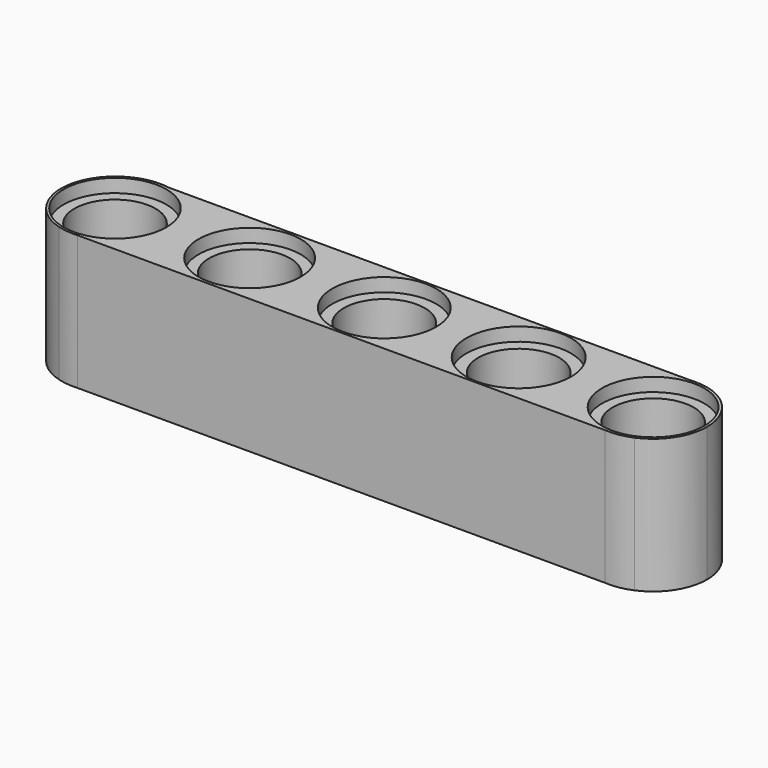
from build123d import *

# Parameters (mm, degrees)
F0_R     = 2.3919393617
F1_DEPTH = 7.9375
F2_R     = 3.0192979406
F2_R_2   = 2.3919393617
F2_R_3   = 3.0900236713
F2_R_4   = 3.0639016039
F2_R_5   = 3.0180013539
F2_R_6   = 3.0358198122
F3_DEPTH = 0.79375
F4_R     = 3.0946781872
F4_R_2   = 2.3919393617
F4_R_3   = 3.0440395285
F4_R_4   = 3.0438317033
F4_R_5   = 3.080942185
F4_R_6   = 2.996685824
F5_DEPTH = 0.79375


with BuildPart() as f1:
    # F0 (on Top) → F1 (new body)
    with BuildSketch(Plane.XY):
        with BuildLine():
            ThreePointArc((-3.1748391564, 6.3618900805), (-0.0650994939, 3.8236435926), (-1.9082323266, 0.2576882701))
            ThreePointArc((-1.9082323266, 0.2576882701), (-0.4943758214, 1.4282223533), (0.0359294434, 3.1854692293))
            ThreePointArc((0.0359294434, 3.1854692293), (-0.9065879549, 5.443714368), (-3.1748391564, 6.3618900805))
        make_face()
        with BuildLine():
            ThreePointArc((-36.5301852994, 5.9214270067), (-38.0657970886, 2.7730759979), (-35.7714141925, 0.1261863575))
            ThreePointArc((-35.7714141925, 0.1261863575), (-38.0245779178, 2.7784728257), (-36.5301852994, 5.9214270067))
        make_face()
        with BuildLine():
            ThreePointArc((-26.6891774485, 6.35), (-26.9658751282, 6.362073801), (-27.2425728079, 6.35))
            Line((-27.2425728079, 6.35), (-26.6891774485, 6.35))
        make_face()
        with BuildLine():
            Line((-19.2923728079, 6.35), (-18.7389774485, 6.35))
            ThreePointArc((-18.7389774485, 6.35), (-19.0156751282, 6.362073801), (-19.2923728079, 6.35))
        make_face()
        with BuildLine():
            Line((-11.3548728079, 6.35), (-10.8014774485, 6.35))
            ThreePointArc((-10.8014774485, 6.35), (-11.0781751282, 6.362073801), (-11.3548728079, 6.35))
        make_face()
        with BuildLine():
            Line((-34.594617784, 0), (-3.4232600592, 0))
            ThreePointArc((-3.4232600592, 0), (-2.6499734267, 0.0361112438), (-1.9082323266, 0.2576882701))
            ThreePointArc((-1.9082323266, 0.2576882701), (-6.2510268672, 2.54007891), (-3.1748391564, 6.3618900805))
            ThreePointArc((-3.1748391564, 6.3618900805), (-3.3171702803, 6.3591232625), (-3.4592356533, 6.35))
            Line((-3.4592356533, 6.35), (-10.8014774485, 6.35))
            ThreePointArc((-10.8014774485, 6.35), (-8.7361913838, 5.331611989), (-7.9015705566, 3.1854692293))
            ThreePointArc((-7.9015705566, 3.1854692293), (-13.224317888, 0.8434854848), (-11.3548728079, 6.35))
            Line((-11.3548728079, 6.35), (-18.7389774485, 6.35))
            ThreePointArc((-18.7389774485, 6.35), (-16.6736913838, 5.331611989), (-15.8390705566, 3.1854692293))
            ThreePointArc((-15.8390705566, 3.1854692293), (-21.161817888, 0.8434854848), (-19.2923728079, 6.35))
            Line((-19.2923728079, 6.35), (-26.6891774485, 6.35))
            ThreePointArc((-26.6891774485, 6.35), (-24.6238913838, 5.331611989), (-23.7892705566, 3.1854692293))
            ThreePointArc((-23.7892705566, 3.1854692293), (-29.112017888, 0.8434854848), (-27.2425728079, 6.35))
            Line((-27.2425728079, 6.35), (-34.2893563211, 6.35))
            ThreePointArc((-34.2893563211, 6.35), (-35.4492032163, 6.3418890662), (-36.5301852994, 5.9214270067))
            ThreePointArc((-36.5301852994, 5.9214270067), (-33.3407296335, 5.9439295203), (-31.7394705566, 3.1854692293))
            ThreePointArc((-31.7394705566, 3.1854692293), (-32.9959523948, 0.6548674643), (-35.7714141925, 0.1261863575))
            ThreePointArc((-35.7714141925, 0.1261863575), (-35.1888922767, 0.0082917303), (-34.594617784, 0))
        make_face()
        with BuildLine():
            ThreePointArc((-36.5301852994, 5.9214270067), (-38.0245779178, 2.7784728257), (-35.7714141925, 0.1261863575))
            ThreePointArc((-35.7714141925, 0.1261863575), (-32.9959523948, 0.6548674643), (-31.7394705566, 3.1854692293))
            ThreePointArc((-31.7394705566, 3.1854692293), (-33.3407296335, 5.9439295203), (-36.5301852994, 5.9214270067))
        make_face()
        with Locations((-34.9160751282, 3.1854692293)):
            Circle(F0_R, mode=Mode.SUBTRACT)
        with BuildLine():
            Line((-26.6891774485, 6.35), (-27.2425728079, 6.35))
            ThreePointArc((-27.2425728079, 6.35), (-29.112017888, 0.8434854848), (-23.7892705566, 3.1854692293))
            ThreePointArc((-23.7892705566, 3.1854692293), (-24.6238913838, 5.331611989), (-26.6891774485, 6.35))
        make_face()
        with Locations((-26.9658751282, 3.1854692293)):
            Circle(F0_R, mode=Mode.SUBTRACT)
        with BuildLine():
            ThreePointArc((-15.8390705566, 3.1854692293), (-16.6736913838, 5.331611989), (-18.7389774485, 6.35))
            Line((-18.7389774485, 6.35), (-19.2923728079, 6.35))
            ThreePointArc((-19.2923728079, 6.35), (-21.161817888, 0.8434854848), (-15.8390705566, 3.1854692293))
        make_face()
        with Locations((-19.0156751282, 3.1854692293)):
            Circle(F0_R, mode=Mode.SUBTRACT)
        with BuildLine():
            ThreePointArc((-7.9015705566, 3.1854692293), (-8.7361913838, 5.331611989), (-10.8014774485, 6.35))
            Line((-10.8014774485, 6.35), (-11.3548728079, 6.35))
            ThreePointArc((-11.3548728079, 6.35), (-13.224317888, 0.8434854848), (-7.9015705566, 3.1854692293))
        make_face()
        with Locations((-11.0781751282, 3.1854692293)):
            Circle(F0_R, mode=Mode.SUBTRACT)
        with BuildLine():
            ThreePointArc((-3.1748391564, 6.3618900805), (-6.2510268672, 2.54007891), (-1.9082323266, 0.2576882701))
            ThreePointArc((-1.9082323266, 0.2576882701), (-0.0650994939, 3.8236435926), (-3.1748391564, 6.3618900805))
        make_face()
        with Locations((-3.1406751282, 3.1854692293)):
            Circle(F0_R, mode=Mode.SUBTRACT)
    extrude(amount=F1_DEPTH)

    # F2 (on face) → F3 (cut)
    with BuildSketch(Plane.XY.offset(7.9375)):
        with Locations((-3.1406751282, 3.1854692293)):
            Circle(F2_R)
        with Locations((-3.1406751282, 3.1854692293)):
            Circle(F2_R_2, mode=Mode.SUBTRACT)
        with Locations((-11.0781751282, 3.1854692293)):
            Circle(F2_R_3)
        with Locations((-11.0781751282, 3.1854692293)):
            Circle(F2_R_2, mode=Mode.SUBTRACT)
        with Locations((-19.0156751282, 3.1854692293)):
            Circle(F2_R_4)
        with Locations((-19.0156751282, 3.1854692293)):
            Circle(F2_R_2, mode=Mode.SUBTRACT)
        with Locations((-26.9658751282, 3.1854692293)):
            Circle(F2_R_5)
        with Locations((-26.9658751282, 3.1854692293)):
            Circle(F2_R_2, mode=Mode.SUBTRACT)
        with Locations((-34.9160751282, 3.1854692293)):
            Circle(F2_R_6)
        with Locations((-34.9160751282, 3.1854692293)):
            Circle(F2_R_2, mode=Mode.SUBTRACT)
    extrude(amount=-F3_DEPTH, mode=Mode.SUBTRACT)

    # F4 (on face) → F5 (cut)
    with BuildSketch(Plane(origin=(0, 0, 0), x_dir=(1, 0, 0), z_dir=(0, 0, -1))):
        with Locations((-34.8472412506, -3.1944816519)):
            Circle(F4_R)
        with Locations((-34.9160751282, -3.1854692293)):
            Circle(F4_R_2, mode=Mode.SUBTRACT)
        with Locations((-26.9658751282, -3.1854692293)):
            Circle(F4_R_3)
        with Locations((-26.9658751282, -3.1854692293)):
            Circle(F4_R_2, mode=Mode.SUBTRACT)
        with Locations((-19.0156751282, -3.1854692293)):
            Circle(F4_R_4)
        with Locations((-19.0156751282, -3.1854692293)):
            Circle(F4_R_2, mode=Mode.SUBTRACT)
        with Locations((-11.0781751282, -3.1854692293)):
            Circle(F4_R_5)
        with Locations((-11.0781751282, -3.1854692293)):
            Circle(F4_R_2, mode=Mode.SUBTRACT)
        with Locations((-3.1406751282, -3.1854692293)):
            Circle(F4_R_6)
        with Locations((-3.1406751282, -3.1854692293)):
            Circle(F4_R_2, mode=Mode.SUBTRACT)
    extrude(amount=-F5_DEPTH, mode=Mode.SUBTRACT)


solid = f1.part
